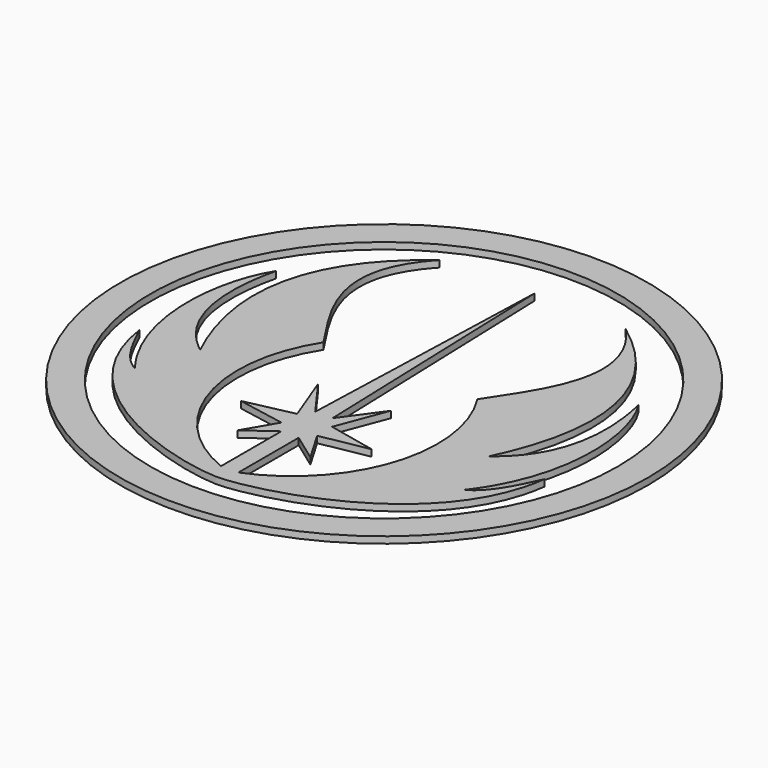
from build123d import *

# Parameters (mm, degrees)
F0_R     = 40
F0_R_2   = 35.422102
F1_DEPTH = 1


with BuildPart() as f1:
    # F0 (on Top) → F1 (new body)
    with BuildSketch(Plane.XY):
        Circle(F0_R)
        Circle(F0_R_2, mode=Mode.SUBTRACT)
        with BuildLine():
            Line((1.313285, -11.41147), (0, 28.478035))
            Line((0, 28.478035), (-1.313285, -11.41147))
            Line((-1.313285, -11.41147), (-5.507818, -5.619304))
            Line((-5.507818, -5.619304), (-2.64649, -13.161371))
            Line((-2.64649, -13.161371), (-9.902007, -14.7334))
            Line((-9.902007, -14.7334), (-2.706952, -16.063579))
            Line((-2.706952, -16.063579), (-5.507818, -20.852241))
            Line((-5.507818, -20.852241), (-1.313285, -17.814672))
            Line((-1.313285, -17.814672), (-1.313285, -29.244435))
            ThreePointArc((-1.313285, -29.244435), (-14.086236, -15.508678), (-11.672494, 3.092213))
            add(Edge.make_bspline(
                [(-11.672494, 3.092213), (-15.374468, 9.014808), (-23.355535, 18.326055), (-14.104752, 28.121004)],
                knots=[0, 0, 0, 0, 25.146695, 25.146695, 25.146695, 25.146695], degree=3))
            add(Edge.make_bspline(
                [(-14.104752, 28.121004), (-28.253009, 17.721428), (-27.527459, 4.298722), (-21.84397, -7.551955)],
                knots=[0, 0, 0, 0, 36.502815, 36.502815, 36.502815, 36.502815], degree=3))
            add(Edge.make_bspline(
                [(-21.84397, -7.551955), (-22.564647, -6.74157), (-31.150342, -1.723171), (-27.462122, 13.876191)],
                knots=[0, 0, 0, 0, 22.152406, 22.152406, 22.152406, 22.152406], degree=3))
            add(Edge.make_bspline(
                [(-27.462122, 13.876191), (-31.271267, 8.011315), (-33.024686, -5.653242), (-24.92269, -16.052816)],
                knots=[0, 0, 0, 0, 30.036548, 30.036548, 30.036548, 30.036548], degree=3))
            add(Edge.make_bspline(
                [(-24.92269, -16.052816), (-27.64351, -14.601713), (-29.276, -10.913491), (-30.66664, -7.950822)],
                knots=[0, 0, 0, 0, 9.931529, 9.931529, 9.931529, 9.931529], degree=3))
            add(Edge.make_bspline(
                [(-30.66664, -7.950822), (-28.187674, -26.452388), (-5.45372, -31.712639), (0, -31.712639)],
                knots=[0, 0, 0, 0, 38.79519, 38.79519, 38.79519, 38.79519], degree=3))
            add(Edge.make_bspline(
                [(30.66664, -7.950822), (28.187674, -26.452388), (5.45372, -31.712639), (0, -31.712639)],
                knots=[0, 0, 0, 0, 38.79519, 38.79519, 38.79519, 38.79519], degree=3))
            add(Edge.make_bspline(
                [(24.92269, -16.052816), (27.64351, -14.601713), (29.276, -10.913491), (30.66664, -7.950822)],
                knots=[0, 0, 0, 0, 9.931529, 9.931529, 9.931529, 9.931529], degree=3))
            add(Edge.make_bspline(
                [(27.462122, 13.876191), (31.271267, 8.011315), (33.024686, -5.653242), (24.92269, -16.052816)],
                knots=[0, 0, 0, 0, 30.036548, 30.036548, 30.036548, 30.036548], degree=3))
            add(Edge.make_bspline(
                [(21.84397, -7.551955), (22.564647, -6.74157), (31.150342, -1.723171), (27.462122, 13.876191)],
                knots=[0, 0, 0, 0, 22.152406, 22.152406, 22.152406, 22.152406], degree=3))
            add(Edge.make_bspline(
                [(14.104752, 28.121004), (28.253009, 17.721428), (27.527459, 4.298722), (21.84397, -7.551955)],
                knots=[0, 0, 0, 0, 36.502815, 36.502815, 36.502815, 36.502815], degree=3))
            add(Edge.make_bspline(
                [(11.672494, 3.092213), (15.374468, 9.014808), (23.355535, 18.326055), (14.104752, 28.121004)],
                knots=[0, 0, 0, 0, 25.146695, 25.146695, 25.146695, 25.146695], degree=3))
            ThreePointArc((11.672494, 3.092213), (14.086236, -15.508678), (1.313285, -29.244435))
            Line((1.313285, -29.244435), (1.313285, -17.814672))
            Line((1.313285, -17.814672), (5.507818, -20.852241))
            Line((5.507818, -20.852241), (2.706952, -16.063579))
            Line((2.706952, -16.063579), (9.902007, -14.7334))
            Line((9.902007, -14.7334), (2.64649, -13.161371))
            Line((2.64649, -13.161371), (5.507818, -5.619304))
            Line((5.507818, -5.619304), (1.313285, -11.41147))
        make_face()
    extrude(amount=F1_DEPTH)


solid = f1.part
